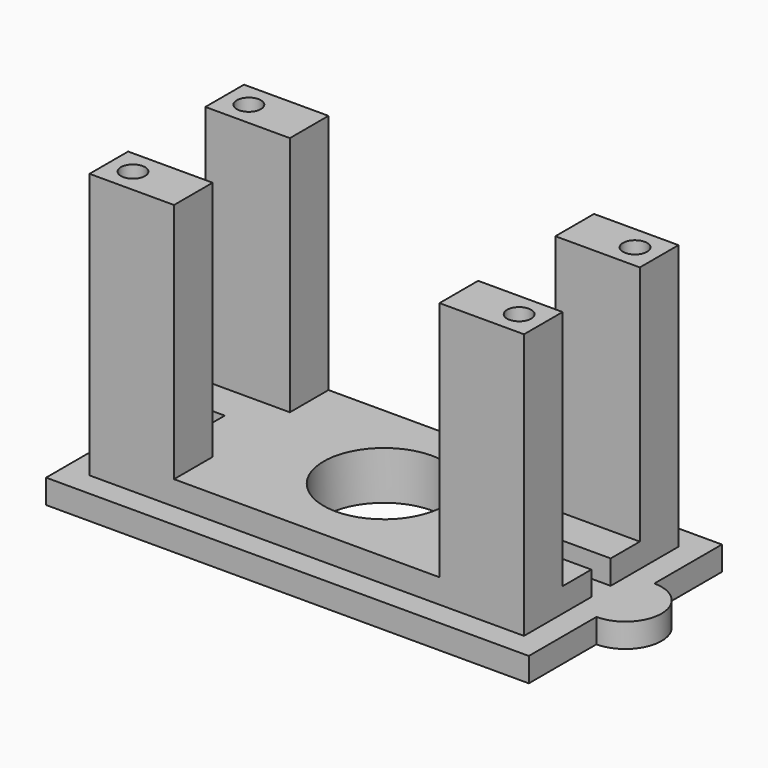
from build123d import *

# Parameters (mm, degrees)
PAD_DEPTH    = 1
PAD001_DEPTH = 1
SKETCH002_W  = 3.5
SKETCH002_H  = 2
PAD002_DEPTH = 10
SKETCH003_R  = 2.5
POCKET_DEPTH = 2.001
SKETCH004_R  = 0.5
HOLE_DEPTH   = 10
HOLE_TIPS_R  = 0.5


with BuildPart() as part:
    # Sketch → Pad (new body)
    with BuildSketch(Plane.XY):
        with BuildLine():
            Line((-10, 5), (10, 5))
            Line((10, 5), (10, 1.5))
            ThreePointArc((10, -1.5), (11.5, 0), (10, 1.5))
            Line((10, -1.5), (10, -5))
            Line((10, -5), (-10, -5))
            Line((-10, -5), (-10, -1.5))
            ThreePointArc((-10, 1.5), (-11.5, 0), (-10, -1.5))
            Line((-10, 1.5), (-10, 5))
        make_face()
    extrude(amount=PAD_DEPTH)

    # Sketch001 (on Face10 of Pad) → Pad001 (join)
    with BuildSketch(Plane.XY.offset(1)):
        Polygon((-9, 4), (9, 4), (9, 0.489518), (7, 0.489518), (7, -0.510482), (9, -0.510482), (9, -4), (-9, -4), (-9, -0.49649), (-7, -0.49649), (-7, 0.50351), (-9, 0.50351), align=None)
    extrude(amount=PAD001_DEPTH)

    # Sketch002 (on Face23 of Pad001) → Pad002 (join)
    with BuildSketch(Plane.XY.offset(2)):
        with Locations((7.25, -3)):
            Rectangle(SKETCH002_W, SKETCH002_H)
        with Locations((7.25, 3)):
            Rectangle(SKETCH002_W, SKETCH002_H)
        with Locations((-7.25, 3)):
            Rectangle(SKETCH002_W, SKETCH002_H)
        with Locations((-7.25, -3)):
            Rectangle(SKETCH002_W, SKETCH002_H)
    extrude(amount=PAD002_DEPTH)

    # Sketch003 (on Face23 of Pad002) → Pocket (cut, through all)
    with BuildSketch(Plane.XY.offset(2)):
        Circle(SKETCH003_R)
    extrude(amount=-POCKET_DEPTH, mode=Mode.SUBTRACT)

    # Sketch004 (on Face42 of Pocket) → Hole (cut)
    with BuildSketch(Plane.XY.offset(12)):
        with Locations((8, -3)):
            Circle(SKETCH004_R)
        with Locations((-8, 3)):
            Circle(SKETCH004_R)
        with Locations((-8, -3)):
            Circle(SKETCH004_R)
        with Locations((8, 3)):
            Circle(SKETCH004_R)
    extrude(amount=-HOLE_DEPTH, mode=Mode.SUBTRACT)

    # Hole tips → Hole tip 1 section 0
    with BuildSketch(Plane.XY.offset(2), mode=Mode.PRIVATE) as hole_tip_1_s0:
        with Locations((8, -3)):
            Circle(HOLE_TIPS_R)
    loft([hole_tip_1_s0.sketch, Vertex(8, -3, 1.69957)], mode=Mode.SUBTRACT)

    # Hole tips → Hole tip 2 section 0
    with BuildSketch(Plane.XY.offset(2), mode=Mode.PRIVATE) as hole_tip_2_s0:
        with Locations((-8, 3)):
            Circle(HOLE_TIPS_R)
    loft([hole_tip_2_s0.sketch, Vertex(-8, 3, 1.69957)], mode=Mode.SUBTRACT)

    # Hole tips → Hole tip 3 section 0
    with BuildSketch(Plane.XY.offset(2), mode=Mode.PRIVATE) as hole_tip_3_s0:
        with Locations((-8, -3)):
            Circle(HOLE_TIPS_R)
    loft([hole_tip_3_s0.sketch, Vertex(-8, -3, 1.69957)], mode=Mode.SUBTRACT)

    # Hole tips → Hole tip 4 section 0
    with BuildSketch(Plane.XY.offset(2), mode=Mode.PRIVATE) as hole_tip_4_s0:
        with Locations((8, 3)):
            Circle(HOLE_TIPS_R)
    loft([hole_tip_4_s0.sketch, Vertex(8, 3, 1.69957)], mode=Mode.SUBTRACT)


solid = part.part
